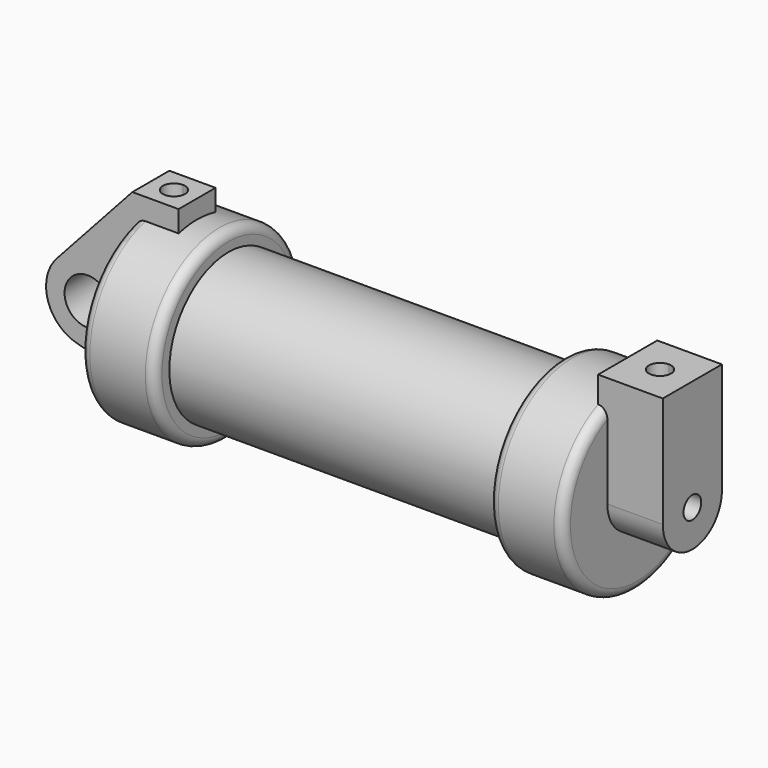
from build123d import *

# Parameters (mm, degrees)
F0_W          = 5.842
F0_H          = 12.7
F0_R          = 3.175
F2_DEPTH      = 3.175
F3_R          = 1.524
F4_DEPTH      = 7.62
F4_DEPTH_BACK = 1.27
F5_DEPTH      = 56.134
F8_DEPTH      = 17.78
F9_DEPTH      = 10.414
F10_R         = 1.27


with BuildPart() as f1:
    # F0 (on Front) → F1 (revolve)
    with BuildSketch(Plane.XZ):
        Polygon((5.842, 12.7), (5.842, 0), (66.294, 0), (66.294, 12.7), (56.134, 12.7), (56.134, 10.16), (10.16, 10.16), (10.16, 12.7), align=None)
        with Locations((2.921, 6.35)):
            Rectangle(F0_W, F0_H)
    revolve(axis=Axis((33.147, 0, 0), (-1, 0, 0)))

    # F0 (on Front) → F2 (join, symmetric)
    with BuildSketch(Plane.XZ):
        with BuildLine():
            ThreePointArc((-8.1826630726, -5.5069827884), (-3.1957909266, -4.5493385486), (-0.9398, 0))
            ThreePointArc((-0.9398, 0), (-4.5919612295, 5.3297205562), (-10.8806298187, 3.8475430269))
            ThreePointArc((-10.8806298187, 3.8475430269), (-12.1459778134, -1.5837270034), (-8.1826630726, -5.5069827884))
        make_face()
        with Locations((-6.6548, 0)):
            Circle(F0_R, mode=Mode.SUBTRACT)
        with BuildLine():
            Line((-0.9398, 0), (0, 0))
            Line((0, 0), (0, 12.7))
            Line((0, 12.7), (5.842, 12.7))
            Line((5.842, 12.7), (5.842, 15.24))
            Line((5.842, 15.24), (-0.508, 15.24))
            Line((-0.508, 15.24), (-10.8806298187, 3.8475430269))
            ThreePointArc((-10.8806298187, 3.8475430269), (-4.5919612295, 5.3297205562), (-0.9398, 0))
        make_face()
        with Locations((2.921, 6.35)):
            Rectangle(F0_W, F0_H)
        with BuildLine():
            Line((5.842, 0), (0, 0))
            Line((0, 0), (-0.9398, 0))
            ThreePointArc((-0.9398, 0), (-3.1957909266, -4.5493385486), (-8.1826630726, -5.5069827884))
            Line((-8.1826630726, -5.5069827884), (5.842, -9.398))
            Line((5.842, -9.398), (5.842, 0))
        make_face()
    extrude(amount=F2_DEPTH, both=True)

    # F3 (on face) → F4 (join, two sides)
    with BuildSketch(Plane.YZ.offset(66.294)) as f4_sk:
        with BuildLine():
            ThreePointArc((-5.08, 11.6397422652), (0, 12.7), (5.08, 11.6397422652))
            Line((5.08, 11.6397422652), (5.08, 15.24))
            Line((5.08, 15.24), (-5.08, 15.24))
            Line((-5.08, 15.24), (-5.08, 11.6397422652))
        make_face()
        with BuildLine():
            ThreePointArc((-5.08, 0), (0, -5.08), (5.08, 0))
            ThreePointArc((5.08, 0), (0, 5.08), (-5.08, 0))
        make_face()
        Circle(F3_R, mode=Mode.SUBTRACT)
        with BuildLine():
            ThreePointArc((-5.08, 0), (0, 5.08), (5.08, 0))
            Line((5.08, 0), (5.08, 11.6397422652))
            ThreePointArc((5.08, 11.6397422652), (0, 12.7), (-5.08, 11.6397422652))
            Line((-5.08, 11.6397422652), (-5.08, 0))
        make_face()
    extrude(amount=F4_DEPTH)
    extrude(f4_sk.sketch, amount=-F4_DEPTH_BACK)

    # F5 (cut, through all): a face of the model
    f5_faces = [f1.faces().sort_by_distance(p)[0] for p in [
        (66.294, 0, 0),
    ]]
    extrude(f5_faces, amount=-F5_DEPTH, mode=Mode.SUBTRACT)

    # F6 (on face) → F8 (cut)
    with BuildSketch(Plane.XY.offset(15.24)):
        with BuildLine():
            ThreePointArc((2.667, -1.524), (3.7446307345, -1.0776307345), (4.191, 0))
            ThreePointArc((4.191, 0), (3.7446307345, 1.0776307345), (2.667, 1.524))
            ThreePointArc((2.667, 1.524), (1.143, 0), (2.667, -1.524))
        make_face()
    extrude(amount=-F8_DEPTH, mode=Mode.SUBTRACT)

    # F7 (on face) → F9 (cut)
    with BuildSketch(Plane.XY.offset(15.24)):
        with BuildLine():
            ThreePointArc((70.993, 0), (70.5466307345, 1.0776307345), (69.469, 1.524))
            ThreePointArc((69.469, 1.524), (67.945, 0), (69.469, -1.524))
            ThreePointArc((69.469, -1.524), (70.5466307345, -1.0776307345), (70.993, 0))
        make_face()
    extrude(amount=-F9_DEPTH, mode=Mode.SUBTRACT)

    # F10
    f10_edges = [f1.edges().sort_by_distance(p)[0] for p in [
        (56.134, 0, -12.7),
        (66.294, 0, -12.7),
        (10.16, 0, -12.7),
        (0, 0, -12.7),
    ]]
    fillet(f10_edges, radius=F10_R)


solid = f1.part
